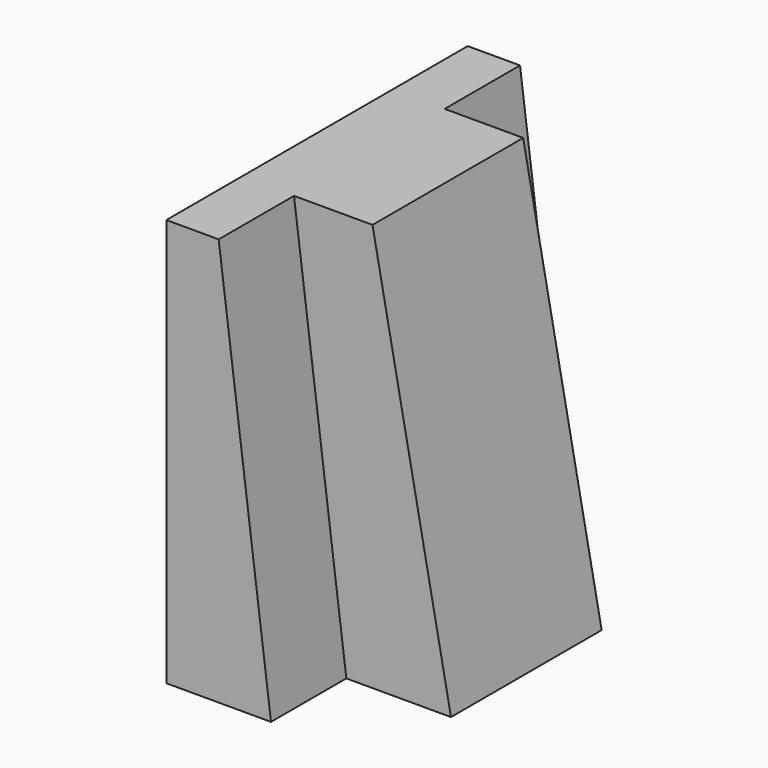
from build123d import *

# Parameters (mm, degrees)
F0_W     = 22.854749
F0_H     = 98.96972
F1_DEPTH = 25.4
F3_DEPTH = 22.855749
F4_DEPTH = 50.8
F6_DEPTH = 22.855749


with BuildPart() as f1:
    # F0 (on Right) → F1 (new body)
    with BuildSketch(Plane.YZ):
        with Locations((-34.282123, 0)):
            Rectangle(F0_W, F0_H)
    extrude(amount=F1_DEPTH)

    # F2 (on face) → F3 (cut, through all)
    with BuildSketch(Plane.XZ.offset(45.709498)):
        Polygon((25.4, 49.48486), (12.7, 49.48486), (25.4, -49.48486), align=None)
    extrude(amount=-F3_DEPTH, mode=Mode.SUBTRACT)

    # F0 (on Right) → F4 (join)
    with BuildSketch(Plane.YZ):
        Polygon((0, -49.48486), (0, 0), (0, 49.48486), (-22.854749, 49.48486), (-22.854749, -49.48486), align=None)
    extrude(amount=F4_DEPTH)

    # F5 (on face) → F6 (cut, through all)
    with BuildSketch(Plane.XZ.offset(22.854749)):
        Polygon((50.8, 49.48486), (31.75, 49.48486), (50.8, -49.48486), align=None)
    extrude(amount=-F6_DEPTH, mode=Mode.SUBTRACT)

    # F7: F1 across plane


with BuildPart() as f1_1:
    add(f1.part)
    add(f1.part.mirror(Plane.XZ))


solid = f1_1.part
